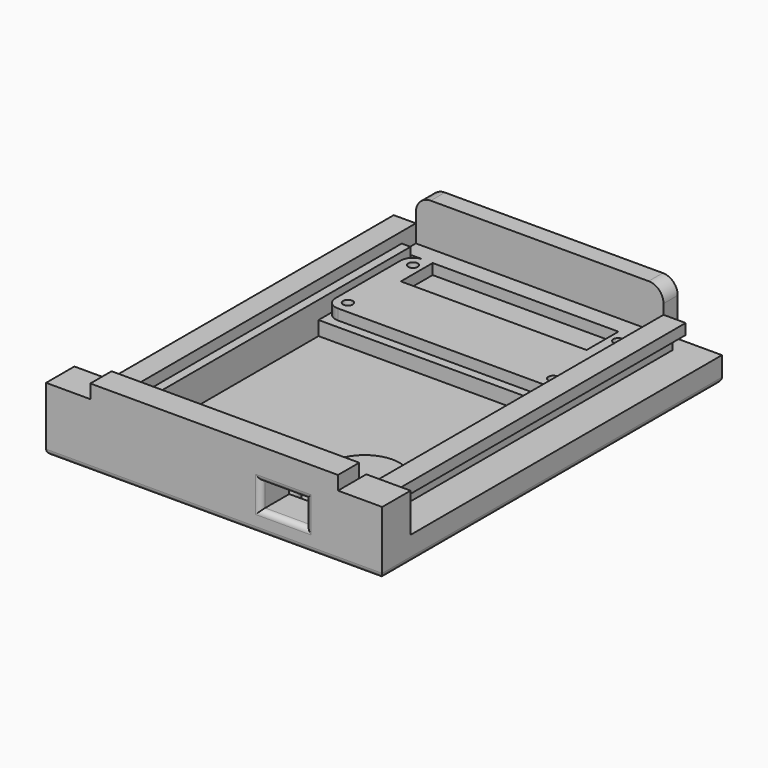
from build123d import *

# Parameters (mm, degrees)
SKETCH_R             = 1.375
PAD_DEPTH            = 3
FILLET_R             = 3.5
SKETCH001_W          = 95
SKETCH001_H          = 120
SKETCH001_R          = 1.375
SKETCH001_R_2        = 1.4
SKETCH001_R_3        = 1.403567
PAD001_DEPTH         = 7
SKETCH002_R          = 2.75
POCKET_DEPTH         = 1.75
SKETCH003_W          = 65
SKETCH003_H          = 67.5
POCKET001_DEPTH      = 4
SKETCH004_W          = 65
SKETCH004_H          = 100
PAD002_DEPTH         = 5
SKETCH005_W          = 70
SKETCH005_H          = 102.5
PAD003_DEPTH         = 3
SKETCH006_W          = 70
SKETCH006_H          = 5
POCKET002_DEPTH      = 5
FILLET001_R          = 1.5
SKETCH008_R          = 2.54
SKETCH008_R_2        = 1.27
SKETCH008_R_3        = 9.919017
PAD004_DEPTH         = 2
PAD004_FACE95_R      = 2.54
PAD004_FACE95_R_2    = 1.27
PAD005_DEPTH         = 1
PAD005_FACE94_R      = 2.54
PAD005_FACE94_R_2    = 1.27
PAD006_DEPTH         = 1
SKETCH009_W          = 12.7
SKETCH009_H          = 12.7
POCKET003_DEPTH      = 6
POCKET003_DEPTH_BACK = 1
FILLET002_R          = 1.5
SKETCH010_W          = 12.5
SKETCH010_H          = 10
SKETCH010_W_2        = 70
SKETCH010_H_2        = 7.5
PAD007_DEPTH         = 3
SKETCH015_W          = 45
SKETCH015_H          = 35
POCKET004_DEPTH      = 1
SKETCH028_W          = 1.25
SKETCH028_H          = 105
POCKET005_DEPTH      = 5
SKETCH031_W          = 70
SKETCH031_H          = 5
PAD025_DEPTH         = 15
FILLET007_R          = 4.2
SKETCH033_W          = 70
SKETCH033_H          = 7.5
PAD026_DEPTH         = 3.9
BODY_PLACEMENT_ANGLE = 90


with BuildPart() as part:
    # Sketch → Pad (new body)
    with BuildSketch(Plane.XZ):
        Polygon((6.25, 0), (0, 0), (0, 30), (6.25, 30), (58.75, 30), (65, 30), (65, 0), (58.75, 0), (58.75, 11.25), (6.25, 11.25), align=None)
        with Locations((3.5, 26.5)):
            Circle(SKETCH_R, mode=Mode.SUBTRACT)
        with Locations((61.5, 26.5)):
            Circle(SKETCH_R, mode=Mode.SUBTRACT)
        with Locations((3.5, 3.5)):
            Circle(SKETCH_R, mode=Mode.SUBTRACT)
        with Locations((61.5, 3.5)):
            Circle(SKETCH_R, mode=Mode.SUBTRACT)
    extrude(amount=PAD_DEPTH)

    # Fillet
    fillet_edges = [part.edges().sort_by_distance(p)[0] for p in [
        (0, -1.5, 30),
        (0, -1.5, 0),
        (65, -1.5, 30),
        (65, -1.5, 0),
    ]]
    fillet(fillet_edges, radius=FILLET_R)

    # Sketch001 (on Face5 of Fillet) → Pad001 (join)
    with BuildSketch(Plane.XZ.offset(3)):
        with Locations((32.5, 50)):
            Rectangle(SKETCH001_W, SKETCH001_H)
        with Locations((3.5, 26.5)):
            Circle(SKETCH001_R, mode=Mode.SUBTRACT)
        with Locations((3.5, 3.5)):
            Circle(SKETCH001_R_2, mode=Mode.SUBTRACT)
        with Locations((61.5, 3.5)):
            Circle(SKETCH001_R_2, mode=Mode.SUBTRACT)
        with Locations((61.5, 26.5)):
            Circle(SKETCH001_R_3, mode=Mode.SUBTRACT)
    extrude(amount=PAD001_DEPTH)

    # Sketch002 (on Face29 of Pad001) → Pocket (cut)
    with BuildSketch(Plane.XZ.offset(10)):
        with Locations((3.5, 3.499999)):
            Circle(SKETCH002_R)
        with Locations((3.55131, 26.405157)):
            Circle(SKETCH002_R)
        with Locations((61.5, 26.500002)):
            Circle(SKETCH002_R)
        with Locations((61.561516, 3.466109)):
            Circle(SKETCH002_R)
    extrude(amount=-POCKET_DEPTH, mode=Mode.SUBTRACT)

    # Sketch003 (on Face5 of Pocket) → Pocket001 (cut)
    with BuildSketch(Plane(origin=(0, -3, 0), x_dir=(1, 0, 0), z_dir=(0, 1, 0))):
        with Locations((32.5, -66.25)):
            Rectangle(SKETCH003_W, SKETCH003_H)
    extrude(amount=-POCKET001_DEPTH, mode=Mode.SUBTRACT)

    # Sketch004 (on Face5 of Pocket001) → Pad002 (join)
    with BuildSketch(Plane(origin=(0, -3, 0), x_dir=(1, 0, 0), z_dir=(0, 1, 0))):
        Polygon((0, 5), (65, 5), (70, 5), (70, -100), (80, -100), (80, -110), (-15, -110), (-15, -100), (-5, -100), (-5, 5), align=None)
        with Locations((32.5, -50)):
            Rectangle(SKETCH004_W, SKETCH004_H, mode=Mode.SUBTRACT)
    extrude(amount=PAD002_DEPTH)

    # Sketch005 (on Face22 of Pad002) → Pad003 (join)
    with BuildSketch(Plane(origin=(0, 2, 0), x_dir=(1, 0, 0), z_dir=(0, 1, 0))):
        Polygon((75, 5), (-10, 5), (-10, -100), (-15, -100), (-15, -110), (80, -110), (80, -100), (75, -100), align=None)
        with Locations((32.5, -51.25)):
            Rectangle(SKETCH005_W, SKETCH005_H, mode=Mode.SUBTRACT)
    extrude(amount=PAD003_DEPTH)

    # Sketch006 (on Face34 of Pad003) → Pocket002 (cut)
    with BuildSketch(Plane(origin=(0, 5, 0), x_dir=(1, 0, 0), z_dir=(0, 1, 0))):
        with Locations((32.5, 2.5)):
            Rectangle(SKETCH006_W, SKETCH006_H)
    extrude(amount=-POCKET002_DEPTH, mode=Mode.SUBTRACT)

    # Fillet001
    fillet001_edges = [part.edges().sort_by_distance(p)[0] for p in [
        (32.5, -10, -10),
        (-15, -10, 50),
        (80, -10, 50),
        (32.5, -10, 110),
        (58.811516, -10, 3.466109),
        (58.75, -10, 26.500002),
        (0.80131, -10, 26.405157),
        (0.75, -10, 3.499999),
    ]]
    fillet(fillet001_edges, radius=FILLET001_R)

    # Sketch008 (on Face90 of Fillet001) → Pad004 (join)
    with BuildSketch(Plane(origin=(0, -7, 0), x_dir=(1, 0, 0), z_dir=(0, 1, 0))):
        with Locations((43.18, -96.52)):
            Circle(SKETCH008_R)
        with Locations((43.18, -96.52)):
            Circle(SKETCH008_R_2, mode=Mode.SUBTRACT)
        with Locations((60.96, -96.52)):
            Circle(SKETCH008_R)
        with Locations((60.96, -96.52)):
            Circle(SKETCH008_R_2, mode=Mode.SUBTRACT)
        with Locations((52.07, -81.28)):
            Circle(SKETCH008_R_3)
    extrude(amount=PAD004_DEPTH)

    # Pad004 Face95 → Pad005 (add)
    with BuildSketch(Plane(origin=(43.18, -5, 96.52), x_dir=(1, 0, 0), z_dir=(0, 1, 0))):
        Circle(PAD004_FACE95_R)
        Circle(PAD004_FACE95_R_2, mode=Mode.SUBTRACT)
    extrude(amount=PAD005_DEPTH)

    # Pad005 Face94 → Pad006 (add)
    with BuildSketch(Plane(origin=(60.96, -5, 96.52), x_dir=(1, 0, 0), z_dir=(0, 1, 0))):
        Circle(PAD005_FACE94_R)
        Circle(PAD005_FACE94_R_2, mode=Mode.SUBTRACT)
    extrude(amount=PAD006_DEPTH)

    # Sketch009 (on Face57 of Pad006) → Pocket003 (cut, two sides)
    with BuildSketch(Plane(origin=(0, 2, 0), x_dir=(1, 0, 0), z_dir=(0, 1, 0))) as pocket003_sk:
        with Locations((52.07, -105.41)):
            Rectangle(SKETCH009_W, SKETCH009_H)
    extrude(amount=-POCKET003_DEPTH, mode=Mode.SUBTRACT)
    extrude(pocket003_sk.sketch, amount=POCKET003_DEPTH_BACK, mode=Mode.SUBTRACT)

    # Fillet002
    fillet002_edges = [part.edges().sort_by_distance(p)[0] for p in [
        (45.72, -0.5, 110),
        (52.07, -4, 110),
        (58.42, -0.5, 110),
        (52.07, 3, 110),
    ]]
    fillet(fillet002_edges, radius=FILLET002_R)

    # Sketch010 (on Face29 of Fillet002) → Pad007 (join)
    with BuildSketch(Plane(origin=(0, 5, 0), x_dir=(1, 0, 0), z_dir=(0, 1, 0))):
        with Locations((-8.75, -105)):
            Rectangle(SKETCH010_W, SKETCH010_H)
        with Locations((32.5, -106.25)):
            Rectangle(SKETCH010_W_2, SKETCH010_H_2)
        with Locations((73.75, -105)):
            Rectangle(SKETCH010_W, SKETCH010_H)
    extrude(amount=PAD007_DEPTH)

    # Sketch015 (on Face18 of Pad007) → Pocket004 (cut)
    with BuildSketch(Plane.XZ.offset(10)):
        with Locations((32.5, 15)):
            Rectangle(SKETCH015_W, SKETCH015_H)
    extrude(amount=-POCKET004_DEPTH, mode=Mode.SUBTRACT)

    # Sketch028 (on Face87 of Pocket004) → Pocket005 (cut)
    with BuildSketch(Plane(origin=(0, 5, 0), x_dir=(1, 0, 0), z_dir=(0, 1, 0))):
        with Locations((-9.375, -47.5)):
            Rectangle(SKETCH028_W, SKETCH028_H)
        with Locations((74.375, -47.5)):
            Rectangle(SKETCH028_W, SKETCH028_H)
    extrude(amount=-POCKET005_DEPTH, mode=Mode.SUBTRACT)

    # Sketch031 (on Face16 of Pocket005) → Pad025 (join)
    with BuildSketch(Plane(origin=(0, -3, 0), x_dir=(1, 0, 0), z_dir=(0, 1, 0))):
        with Locations((32.5, 7.5)):
            Rectangle(SKETCH031_W, SKETCH031_H)
    extrude(amount=PAD025_DEPTH)

    # Fillet007
    fillet007_edges = [part.edges().sort_by_distance(p)[0] for p in [
        (-2.5, 12, -7.5),
        (67.5, 12, -7.5),
    ]]
    fillet(fillet007_edges, radius=FILLET007_R)

    # Sketch033 (on Face94 of Fillet007) → Pad026 (join)
    with BuildSketch(Plane(origin=(0, 8, 0), x_dir=(1, 0, 0), z_dir=(0, 1, 0))):
        with Locations((32.5, -106.25)):
            Rectangle(SKETCH033_W, SKETCH033_H)
    extrude(amount=PAD026_DEPTH)


with BuildPart() as part_1:
    # Body placement: moved
    add(part.part.rotate(Axis((0, 0, 0), (1, 0, 0)), BODY_PLACEMENT_ANGLE))


solid = part_1.part
